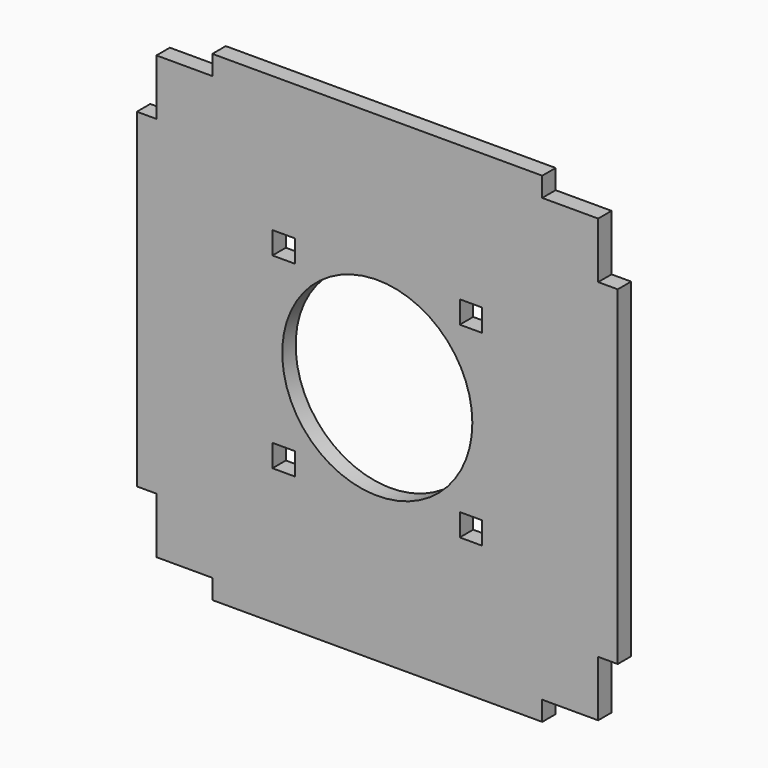
from build123d import *

# Parameters (mm, degrees)
F0_W     = 8
F0_H     = 8
F0_R     = 34
F1_DEPTH = 6


with BuildPart() as f1:
    # F0 (on Front) → F1 (new body)
    with BuildSketch(Plane.XZ):
        Polygon((59, 79), (59, 86), (-59, 86), (-59, 79), (-79, 79), (-79, 59), (-86, 59), (-86, -59), (-79, -59), (-79, -79), (-59, -79), (-59, -86), (59, -86), (59, -79), (79, -79), (79, -59), (86, -59), (86, 59), (79, 59), (79, 79), align=None)
        with Locations((-33.5, -33.5)):
            Rectangle(F0_W, F0_H, mode=Mode.SUBTRACT)
        with Locations((33.5, -33.5)):
            Rectangle(F0_W, F0_H, mode=Mode.SUBTRACT)
        with Locations((-33.5, 33.5)):
            Rectangle(F0_W, F0_H, mode=Mode.SUBTRACT)
        Circle(F0_R, mode=Mode.SUBTRACT)
        with Locations((33.5, 33.5)):
            Rectangle(F0_W, F0_H, mode=Mode.SUBTRACT)
    extrude(amount=F1_DEPTH)


solid = f1.part
